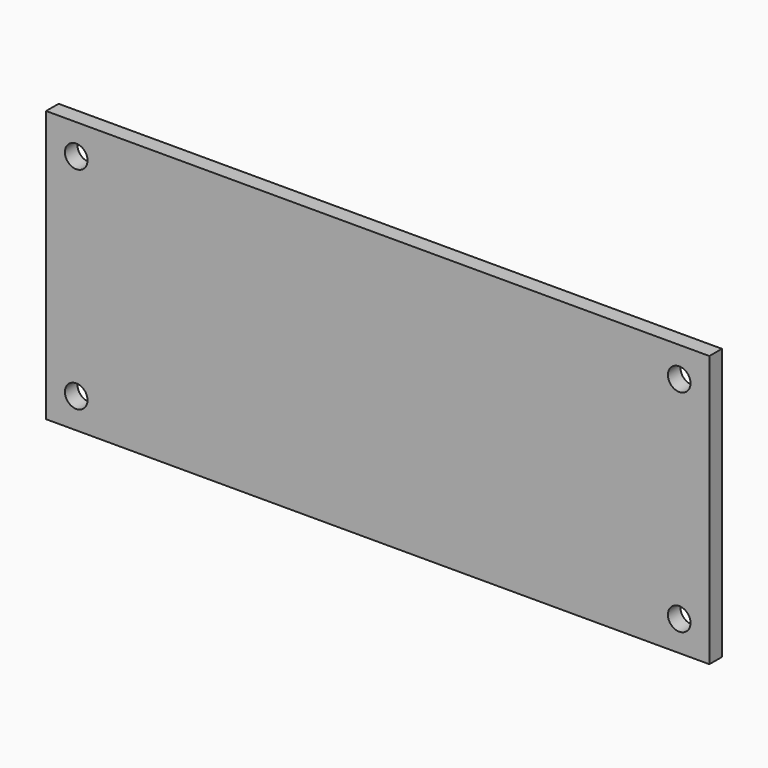
from build123d import *

# Parameters (mm, degrees)
F0_W     = 139.7
F0_H     = 57.15
F1_DEPTH = 1.651
F2_R     = 2.38125
F3_DEPTH = 3.302


with BuildPart() as f1:
    # F0 (on Front) → F1 (new body, symmetric)
    with BuildSketch(Plane.XZ):
        Rectangle(F0_W, F0_H)
    extrude(amount=F1_DEPTH, both=True)

    # F2 (on face) → F3 (cut, through all)
    with BuildSketch(Plane.XZ.offset(1.651)):
        with Locations((-63.5, 22.225)):
            Circle(F2_R)
        with Locations((-63.5, -22.225)):
            Circle(F2_R)
        with Locations((63.5, 22.225)):
            Circle(F2_R)
        with Locations((63.5, -22.225)):
            Circle(F2_R)
    extrude(amount=-F3_DEPTH, mode=Mode.SUBTRACT)


solid = f1.part
